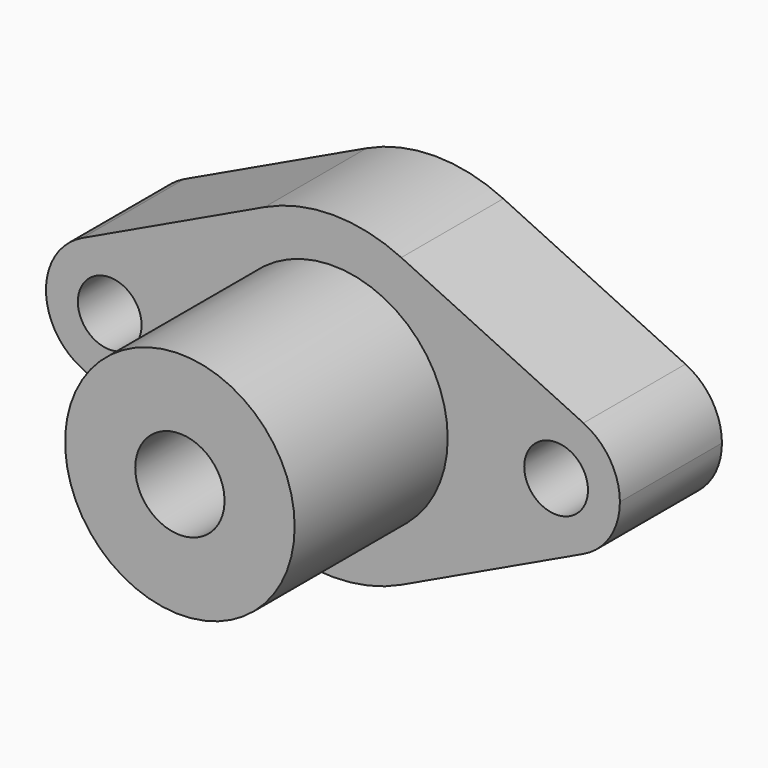
from build123d import *

# Parameters (mm, degrees)
F1_DEPTH = 20
F3_D     = 10
F2_R     = 18
F4_DEPTH = 30
F6_D     = 14
F6_DEPTH = 25
F6_TIP   = 4.2060243332


with BuildPart() as f1:
    # F0 (on Front) → F1 (new body)
    with BuildSketch(Plane.XZ):
        with BuildLine():
            ThreePointArc((-25, 0), (-21.1288563682, 13.3630620956), (-10.7142857143, 22.5876975726))
            Line((-10.7142857143, 22.5876975726), (-39.2857142857, 9.0350790291))
            ThreePointArc((-39.2857142857, 9.0350790291), (-29.6547751618, 8.4515425473), (-25, 0))
        make_face()
        with BuildLine():
            ThreePointArc((39.2857142857, -9.0350790291), (29.6547751618, -8.4515425473), (25, 0))
            ThreePointArc((25, 0), (21.1288563682, -13.3630620956), (10.7142857143, -22.5876975726))
            Line((10.7142857143, -22.5876975726), (39.2857142857, -9.0350790291))
        make_face()
        with BuildLine():
            Line((-39.2857142857, -9.0350790291), (-10.7142857143, -22.5876975726))
            ThreePointArc((-10.7142857143, -22.5876975726), (-21.1288563682, -13.3630620956), (-25, 0))
            ThreePointArc((-25, 0), (-29.6547751618, -8.4515425473), (-39.2857142857, -9.0350790291))
        make_face()
        with BuildLine():
            ThreePointArc((10.7142857143, -22.5876975726), (21.1288563682, -13.3630620956), (25, 0))
            ThreePointArc((25, 0), (21.1288563682, 13.3630620956), (10.7142857143, 22.5876975726))
            ThreePointArc((10.7142857143, 22.5876975726), (0, 25), (-10.7142857143, 22.5876975726))
            ThreePointArc((-10.7142857143, 22.5876975726), (-21.1288563682, 13.3630620956), (-25, 0))
            ThreePointArc((-25, 0), (-21.1288563682, -13.3630620956), (-10.7142857143, -22.5876975726))
            ThreePointArc((-10.7142857143, -22.5876975726), (0, -25), (10.7142857143, -22.5876975726))
        make_face()
        with BuildLine():
            ThreePointArc((-39.2857142857, -9.0350790291), (-29.6547751618, -8.4515425473), (-25, 0))
            ThreePointArc((-25, 0), (-29.6547751618, 8.4515425473), (-39.2857142857, 9.0350790291))
            ThreePointArc((-39.2857142857, 9.0350790291), (-45, 0), (-39.2857142857, -9.0350790291))
        make_face()
        with BuildLine():
            ThreePointArc((39.2857142857, 9.0350790291), (29.6547751618, 8.4515425473), (25, 0))
            ThreePointArc((25, 0), (29.6547751618, -8.4515425473), (39.2857142857, -9.0350790291))
            ThreePointArc((39.2857142857, -9.0350790291), (43.4515425473, -5.3452248382), (45, 0))
            ThreePointArc((45, 0), (43.4515425473, 5.3452248382), (39.2857142857, 9.0350790291))
        make_face()
        with BuildLine():
            ThreePointArc((10.7142857143, 22.5876975726), (21.1288563682, 13.3630620956), (25, 0))
            ThreePointArc((25, 0), (29.6547751618, 8.4515425473), (39.2857142857, 9.0350790291))
            Line((39.2857142857, 9.0350790291), (10.7142857143, 22.5876975726))
        make_face()
    extrude(amount=F1_DEPTH)

    # F3 (through all)
    with Locations(Plane.XZ.offset(20)):
        with Locations((-35, 0), (35, 0)):
            Hole(F3_D / 2)

    # F2 (on face) → F4 (join)
    with BuildSketch(Plane.XZ.offset(20)):
        Circle(F2_R)
    extrude(amount=F4_DEPTH)

    # F6
    with Locations(Plane.XZ.offset(50)):
        with Locations((0, 0)):
            Hole(F6_D / 2, depth=F6_DEPTH)
            with Locations((0, 0, -(F6_DEPTH + F6_TIP / 2))):  # 118° drill point
                Cone(0, F6_D / 2, F6_TIP, mode=Mode.SUBTRACT)


solid = f1.part
